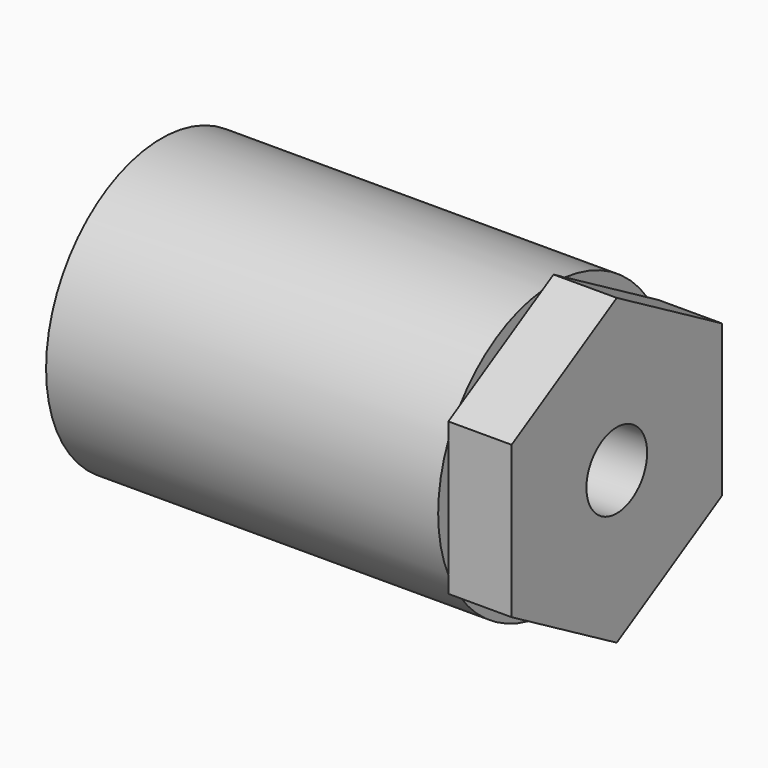
from build123d import *

# Parameters (mm, degrees)
SKETCH_R     = 5.7
PAD_DEPTH    = 15.5
PAD001_DEPTH = 2.5
SKETCH002_R  = 1.5
POCKET_DEPTH = 5


with BuildPart() as part:
    # Sketch → Pad (new body)
    with BuildSketch(Plane.YZ):
        Circle(SKETCH_R)
    extrude(amount=PAD_DEPTH)

    # Sketch001 (on Face3 of Pad) → Pad001 (join)
    with BuildSketch(Plane.YZ.offset(15.5)):
        Polygon((0, 6), (-5.196152, 3), (-5.196152, -3), (0, -6), (5.196152, -3), (5.196152, 3), align=None)
    extrude(amount=PAD001_DEPTH)

    # Sketch002 (on Face21 of Pad001) → Pocket (cut)
    with BuildSketch(Plane.YZ.offset(18)):
        Circle(SKETCH002_R)
    extrude(amount=-POCKET_DEPTH, mode=Mode.SUBTRACT)


solid = part.part
